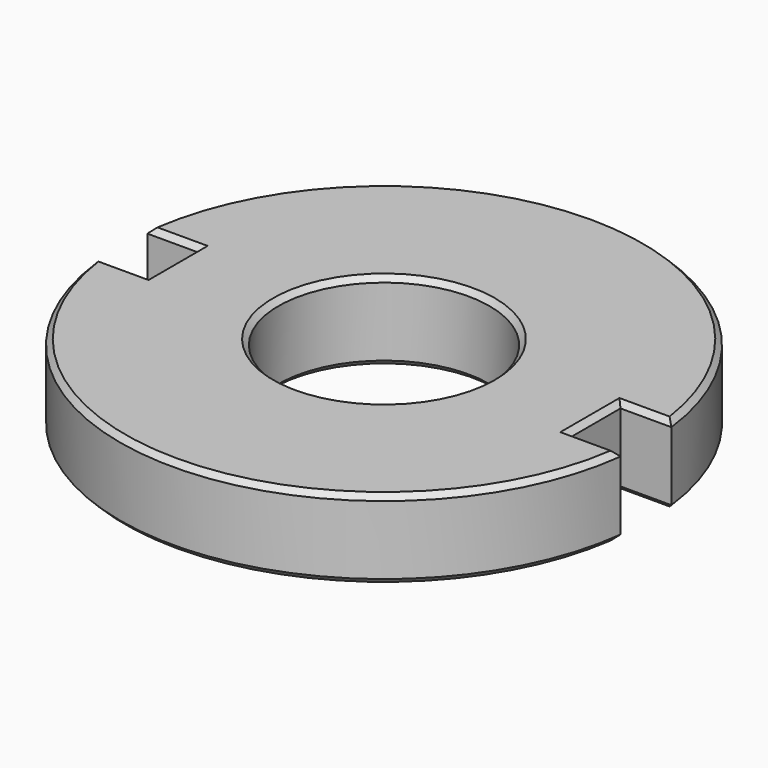
from build123d import *

# Parameters (mm, degrees)
F0_R     = 10
F1_DEPTH = 7.5
F2_SIZE  = 0.5


with BuildPart() as f1:
    # F0 (on Top) → F1 (new body)
    with BuildSketch(Plane.XY):
        with BuildLine():
            Line((20, 3), (24.819347, 3))
            ThreePointArc((24.819347, 3), (0, 25), (-24.819347, 3))
            Line((-24.819347, 3), (-20, 3))
            Line((-20, 3), (-20, -3))
            Line((-20, -3), (-24.819347, -3))
            ThreePointArc((-24.819347, -3), (0, -25), (24.819347, -3))
            Line((24.819347, -3), (20, -3))
            Line((20, -3), (20, 3))
        make_face()
        Circle(F0_R, mode=Mode.SUBTRACT)
    extrude(amount=F1_DEPTH)

    # F2
    f2_edges = [f1.edges().sort_by_distance(p)[0] for p in [
        (22.409674, 3, 7.5),
        (0, 25, 7.5),
        (-22.409674, 3, 7.5),
        (-20, 0, 7.5),
        (-22.409674, -3, 7.5),
        (0, -25, 7.5),
        (22.409674, -3, 7.5),
        (20, 0, 7.5),
        (-10, 0, 7.5),
        (22.409674, 3, 0),
        (0, 25, 0),
        (-22.409674, 3, 0),
        (-20, 0, 0),
        (-22.409674, -3, 0),
        (0, -25, 0),
        (22.409674, -3, 0),
        (20, 0, 0),
        (-10, 0, 0),
    ]]
    chamfer(f2_edges, length=F2_SIZE)


solid = f1.part
